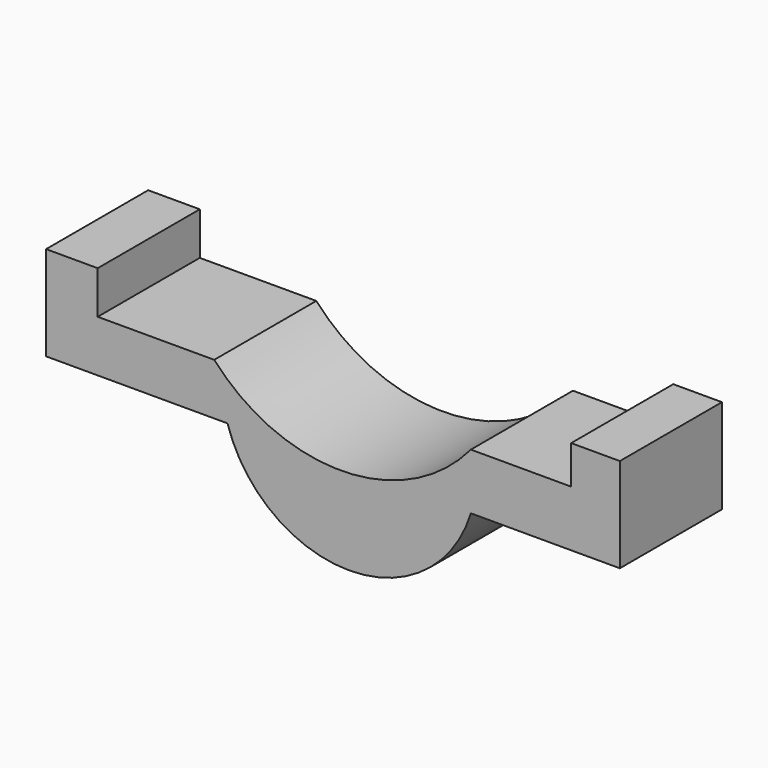
from build123d import *

# Parameters (mm, degrees)
F1_DEPTH = 25.4


with BuildPart() as f1:
    # F0 (on Front) → F1 (new body)
    with BuildSketch(Plane.XZ):
        with BuildLine():
            Line((-65.916494, 38.169909), (-76.193012, 38.169909))
            Line((-76.193012, 38.169909), (-76.193012, 19.378569))
            Line((-76.193012, 19.378569), (-40.078405, 19.378569))
            ThreePointArc((-40.078405, 19.378569), (-15.855193, 1.48526), (8.36802, 19.378569))
            Line((8.36802, 19.378569), (38.023103, 19.378569))
            Line((38.023103, 19.378569), (38.023103, 38.169909))
            Line((38.023103, 38.169909), (28.333819, 38.169909))
            Line((28.333819, 38.169909), (28.333819, 30.535927))
            Line((28.333819, 30.535927), (8.36802, 30.535927))
            ThreePointArc((8.36802, 30.535927), (-16.975842, 18.459765), (-42.720936, 29.655084))
            Line((-42.720936, 29.655084), (-65.916494, 29.655084))
            Line((-65.916494, 29.655084), (-65.916494, 38.169909))
        make_face()
    extrude(amount=F1_DEPTH)


solid = f1.part
